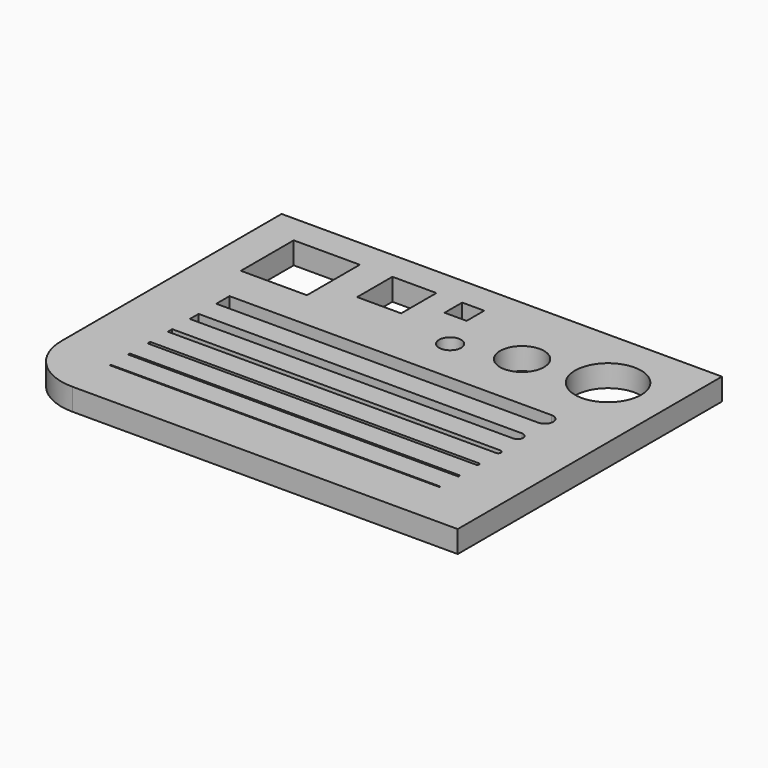
from build123d import *

# Parameters (mm, degrees)
F0_W     = 6
F0_H     = 6
F0_W_2   = 4
F0_H_2   = 4
F0_W_3   = 2
F0_H_3   = 2
F0_R     = 1
F0_R_2   = 2
F0_R_3   = 3
F1_DEPTH = 2


with BuildPart() as f1:
    # F0 (on Top) → F1 (new body)
    with BuildSketch(Plane.XY):
        with BuildLine():
            ThreePointArc((0, 5), (1.464466, 1.464466), (5, 0))
            Line((5, 0), (40, 0))
            Line((40, 0), (40, 30))
            Line((40, 30), (0, 30))
            Line((0, 30), (0, 5))
        make_face()
        with BuildLine():
            Line((5, 4.231699), (5, 4.331699))
            Line((5, 4.331699), (34.911151, 4.331699))
            ThreePointArc((34.911151, 4.331699), (34.946507, 4.317055), (34.961151, 4.281699))
            ThreePointArc((34.961151, 4.281699), (34.946507, 4.246344), (34.911151, 4.231699))
            Line((34.911151, 4.231699), (5, 4.231699))
        make_face(mode=Mode.SUBTRACT)
        with BuildLine():
            Line((5, 8.531699), (5, 8.831699))
            Line((5, 8.831699), (34.834979, 8.831699))
            ThreePointArc((34.834979, 8.831699), (34.941045, 8.787765), (34.984979, 8.681699))
            ThreePointArc((34.984979, 8.681699), (34.941045, 8.575633), (34.834979, 8.531699))
            Line((34.834979, 8.531699), (5, 8.531699))
        make_face(mode=Mode.SUBTRACT)
        with BuildLine():
            Line((5, 13.331699), (5, 14.331699))
            Line((5, 14.331699), (34.378945, 14.331699))
            ThreePointArc((34.378945, 14.331699), (34.732499, 14.185253), (34.878945, 13.831699))
            ThreePointArc((34.878945, 13.831699), (34.732499, 13.478146), (34.378945, 13.331699))
            Line((34.378945, 13.331699), (5, 13.331699))
        make_face(mode=Mode.SUBTRACT)
        with BuildLine():
            Line((5, 6.331699), (5, 6.531699))
            Line((5, 6.531699), (34.911151, 6.531699))
            ThreePointArc((34.911151, 6.531699), (34.981862, 6.50241), (35.011151, 6.431699))
            ThreePointArc((35.011151, 6.431699), (34.981862, 6.360989), (34.911151, 6.331699))
            Line((34.911151, 6.331699), (5, 6.331699))
        make_face(mode=Mode.SUBTRACT)
        with BuildLine():
            Line((5, 10.831699), (5, 11.331699))
            Line((5, 11.331699), (34.814051, 11.331699))
            ThreePointArc((34.814051, 11.331699), (34.990828, 11.258476), (35.064051, 11.081699))
            ThreePointArc((35.064051, 11.081699), (34.990828, 10.904923), (34.814051, 10.831699))
            Line((34.814051, 10.831699), (5, 10.831699))
        make_face(mode=Mode.SUBTRACT)
        with Locations((6.205281, 24.370336)):
            Rectangle(F0_W, F0_H, mode=Mode.SUBTRACT)
        with Locations((14.165812, 25.370336)):
            Rectangle(F0_W_2, F0_H_2, mode=Mode.SUBTRACT)
        with Locations((19.510129, 26.370336)):
            Rectangle(F0_W_3, F0_H_3, mode=Mode.SUBTRACT)
        with BuildLine():
            Line((5, 16.331699), (5, 17.831699))
            Line((5, 17.831699), (34.25, 17.831699))
            ThreePointArc((34.25, 17.831699), (34.78033, 17.612029), (35, 17.081699))
            ThreePointArc((35, 17.081699), (34.78033, 16.551369), (34.25, 16.331699))
            Line((34.25, 16.331699), (5, 16.331699))
        make_face(mode=Mode.SUBTRACT)
        with Locations((21.798409, 21.888405)):
            Circle(F0_R, mode=Mode.SUBTRACT)
        with Locations((27.244295, 23.247146)):
            Circle(F0_R_2, mode=Mode.SUBTRACT)
        with Locations((34.282601, 24.221355)):
            Circle(F0_R_3, mode=Mode.SUBTRACT)
    extrude(amount=F1_DEPTH)


solid = f1.part
